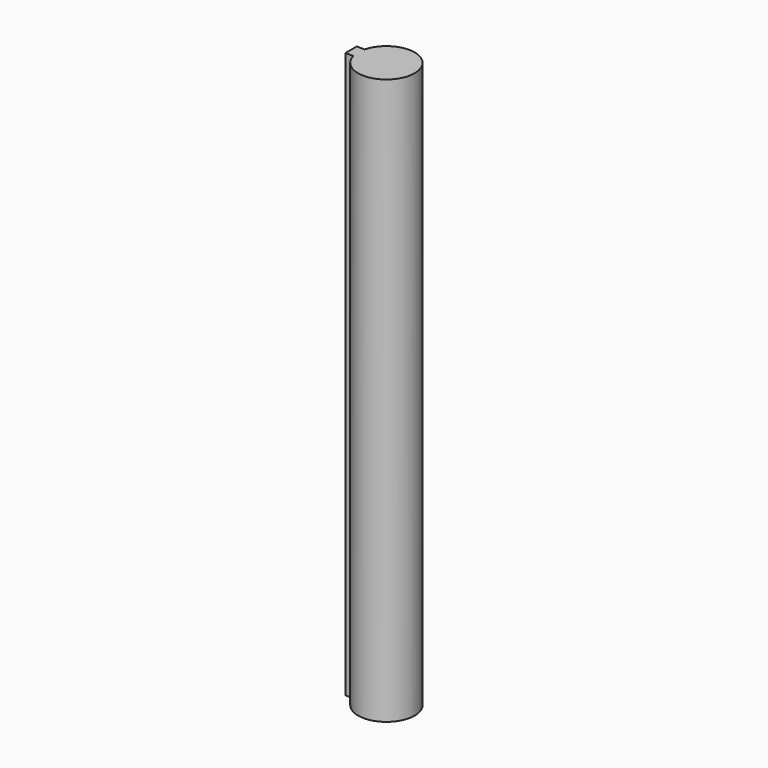
from build123d import *

# Parameters (mm, degrees)
F1_DEPTH = 63.5


with BuildPart() as f1:
    # F0 (on Top) → F1 (new body, symmetric)
    with BuildSketch(Plane.XY):
        with BuildLine():
            Line((-7.9365210621, -1.5875), (-6.1483610621, -1.5875))
            ThreePointArc((-6.1483610621, -1.5875), (6.35, 0), (-6.1483610621, 1.5875))
            Line((-6.1483610621, 1.5875), (-7.9365210621, 1.5875))
            Line((-7.9365210621, 1.5875), (-7.9365210621, -1.5875))
        make_face()
    extrude(amount=F1_DEPTH, both=True)


solid = f1.part
